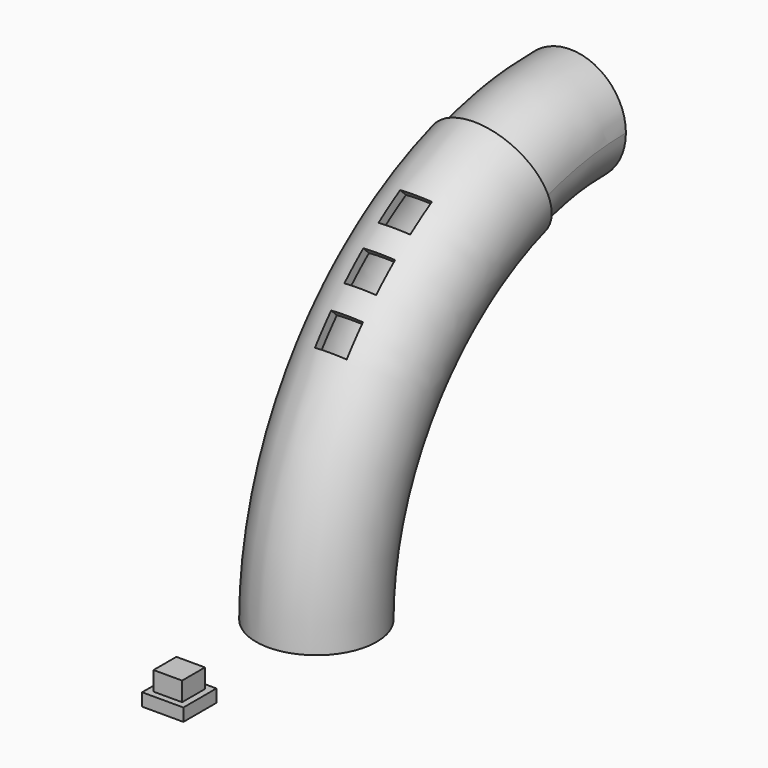
from build123d import *

# Parameters (mm, degrees)
F1_R      = 19
F1_R_2    = 17.5
F10_START = 25
F9_W      = 10
F9_H      = 10
F10_DEPTH = 25
F11_W     = 9
F11_H     = 9
F12_DEPTH = 10
F11_W_2   = 13
F11_H_2   = 13
F13_DEPTH = 4


with BuildPart() as f6:
    # F6: sweep along a path in F2
    with BuildLine(Plane.YZ) as f6_path:
        ThreePointArc((0, 0), (29.2893218813, 70.7106781187), (100, 100))
    # F3 (on offset) → F6 (sweep)
    with BuildSketch(Plane.XZ.offset(-100)):
        with BuildLine():
            ThreePointArc((17.5, 100), (-12.3743686708, 112.3743686708), (0, 82.5))
            ThreePointArc((0, 82.5), (12.3743686708, 87.6256313292), (17.5, 100))
        make_face()
        with BuildLine():
            ThreePointArc((16, 100), (11.313708499, 88.686291501), (0, 84))
            ThreePointArc((0, 84), (-11.313708499, 111.313708499), (16, 100))
        make_face(mode=Mode.SUBTRACT)
    sweep(path=f6_path.line)

    # F7: sweep along a path in F4
    with BuildLine(Plane.YZ) as f7_path:
        ThreePointArc((0, 0), (18.8065617346, 58.3748711574), (68.152511653, 94.7931299514))
    # F1 (on Top) → F7 (sweep)
    with BuildSketch(Plane.XY):
        Circle(F1_R)
        Circle(F1_R_2, mode=Mode.SUBTRACT)
    sweep(path=f7_path.line)

    # F9 (on face) → F10 (cut)
    with BuildSketch(Plane(origin=(0, 0, 0), x_dir=(1, 0, 0), z_dir=(0, -0.7071067812, 0.7071067812)).offset(F10_START)):
        with Locations((0, 94.5305745304)):
            Rectangle(F9_W, F9_H)
        with Locations((0, 77.0305745304)):
            Rectangle(F9_W, F9_H)
        with Locations((0, 59.5305745304)):
            Rectangle(F9_W, F9_H)
    extrude(amount=F10_DEPTH, mode=Mode.SUBTRACT)


with BuildPart() as f12:
    # F11 (on Top) → F12 (new body)
    with BuildSketch(Plane.XY):
        with Locations((2, -56.5)):
            Rectangle(F11_W, F11_H)
    extrude(amount=F12_DEPTH)

    # F11 (on Top) → F13 (join)
    with BuildSketch(Plane.XY):
        with Locations((2, -56.5)):
            Rectangle(F11_W_2, F11_H_2)
        with Locations((2, -56.5)):
            Rectangle(F11_W, F11_H, mode=Mode.SUBTRACT)
    extrude(amount=F13_DEPTH)


solid = Compound([f6.part, f12.part])
